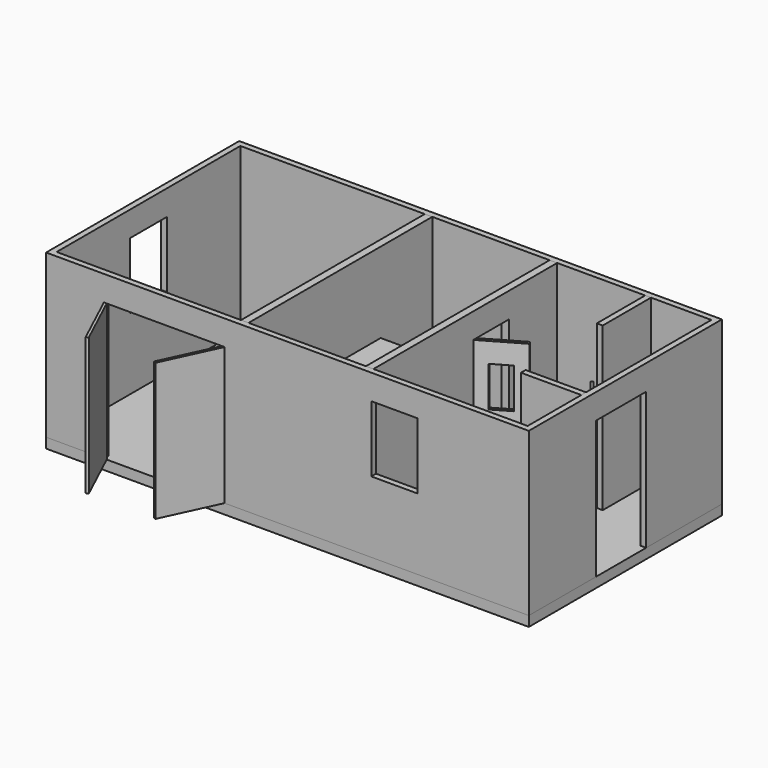
from build123d import *

# Parameters (mm, degrees)
F0_W           = 7315.2
F0_H           = 3657.6
F1_DEPTH       = 152.4
F2_W           = 7315.2
F2_H           = 3657.6
F2_W_2         = 7137.4
F2_H_2         = 3479.8
F3_DEPTH       = 2463.8
F4_W           = 952.5
F4_H           = 2082.8
F5_DEPTH       = 88.9
F6_W           = 1828.8
F6_H           = 2082.8
F6_W_2         = 698.5
F6_H_2         = 1003.3
F7_DEPTH       = 88.9
F8_W           = 698.5
F8_H           = 1003.3
F9_DEPTH       = 88.9
F10_W          = 114.3
F10_H          = 3479.8
F11_DEPTH      = 2463.8
F12_W          = 914.4
F12_H          = 88.9
F13_DEPTH      = 2463.8
F14_W          = 673.1
F14_H          = 2082.8
F15_DEPTH      = 114.3
F16_W          = 508
F16_H          = 88.9
F17_DEPTH      = 1739.9
F17_DEPTH_BACK = 762
F18_W          = 1270
F18_H          = 508
F19_DEPTH      = 88.9
F20_W          = 406.4
F20_H          = 88.9
F21_DEPTH      = 1231.9
F21_DEPTH_BACK = 762
F22_W          = 889
F22_H          = 304.8
F24_DEPTH      = 88.9
F26_DEPTH      = 2082.8
F28_DEPTH      = 2082.8
F29_W          = 2336.8
F29_H          = 76.2
F30_DEPTH      = 457.2
F31_W          = 304.8
F31_H          = 609.6
F32_DEPTH      = 50.8
F34_DEPTH      = 50.8
F35_W          = 508
F35_H          = 406.4
F36_DEPTH      = 9.525
F37_W          = 508
F37_H          = 406.4
F37_W_2        = 488.95
F37_H_2        = 387.35
F38_DEPTH      = 406.4
F40_DEPTH      = 12.7
F42_DEPTH      = 2082.8
F43_W          = 88.9
F43_H          = 914.4
F44_DEPTH      = 2463.8
F45_W          = 457.2
F45_H          = 1219.2
F46_DEPTH      = 76.2
F47_W          = 1333.5
F47_H          = 76.2
F48_DEPTH      = 457.2


with BuildPart() as f1:
    # F0 (on Top) → F1 (new body)
    with BuildSketch(Plane.XY):
        Rectangle(F0_W, F0_H)
    extrude(amount=F1_DEPTH)


with BuildPart() as f3:
    # F2 (on face) → F3 (new body)
    with BuildSketch(Plane.XY.offset(152.4)):
        Rectangle(F2_W, F2_H)
        Rectangle(F2_W_2, F2_H_2, mode=Mode.SUBTRACT)
    extrude(amount=F3_DEPTH)

    # F4 (on face) → F5 (cut, through all)
    with BuildSketch(Plane.YZ.offset(3657.6)):
        with Locations((-82.55, 1193.8)):
            Rectangle(F4_W, F4_H)
    extrude(amount=-F5_DEPTH, mode=Mode.SUBTRACT)

    # F6 (on face) → F7 (cut, through all)
    with BuildSketch(Plane.XZ.offset(1828.8)):
        with Locations((-1866.9, 1193.8)):
            Rectangle(F6_W, F6_H)
        with Locations((1619.25, 1733.55)):
            Rectangle(F6_W_2, F6_H_2)
    extrude(amount=-F7_DEPTH, mode=Mode.SUBTRACT)

    # F8 (on face) → F9 (cut, through all)
    with BuildSketch(Plane(origin=(-3657.6, 0, 0), x_dir=(0, -1, 0), z_dir=(-1, 0, 0))):
        with Locations((0, 1733.55)):
            Rectangle(F8_W, F8_H)
    extrude(amount=-F9_DEPTH, mode=Mode.SUBTRACT)


with BuildPart() as f11:
    # F10 (on face) → F11 (new body, through all)
    with BuildSketch(Plane.XY.offset(152.4)):
        with Locations((-717.55, 0)):
            Rectangle(F10_W, F10_H)
    extrude(amount=F11_DEPTH)


with BuildPart() as f11b:
    # F10 (on face) → F11, piece 2 (new body, through all)
    with BuildSketch(Plane.XY.offset(152.4)):
        with Locations((1174.75, 0)):
            Rectangle(F10_W, F10_H)
    extrude(amount=F11_DEPTH)

    # F14 (on face) → F15 (cut, through all)
    with BuildSketch(Plane.YZ.offset(1231.9)):
        with Locations((488.95, 1193.8)):
            Rectangle(F14_W, F14_H)
    extrude(amount=-F15_DEPTH, mode=Mode.SUBTRACT)


with BuildPart() as f13:
    # F12 (on face) → F13 (new body, through all)
    with BuildSketch(Plane.XY.offset(152.4)):
        with Locations((3111.5, -679.45)):
            Rectangle(F12_W, F12_H)
    extrude(amount=F13_DEPTH)


with BuildPart() as f17:
    # F16 (on Front) → F17 (new body, two sides)
    with BuildSketch(Plane.XZ) as f17_sk:
        with Locations((-406.4, 1352.55)):
            Rectangle(F16_W, F16_H)
    extrude(amount=F17_DEPTH)
    extrude(f17_sk.sketch, amount=-F17_DEPTH_BACK)


with BuildPart() as f19:
    # F18 (on face) → F19 (new body, through all)
    with BuildSketch(Plane.XY.offset(1397)):
        with Locations((482.6, -1485.9)):
            Rectangle(F18_W, F18_H)
    extrude(amount=-F19_DEPTH)


with BuildPart() as f21:
    # F20 (on Front) → F21 (new body, two sides)
    with BuildSketch(Plane.XZ) as f21_sk:
        with Locations((25.4, 844.55)):
            Rectangle(F20_W, F20_H)
    extrude(amount=F21_DEPTH)
    extrude(f21_sk.sketch, amount=-F21_DEPTH_BACK)


with BuildPart() as f24:
    # F22 (on face) → F24 (new body, through all)
    with BuildSketch(Plane.XY.offset(889)):
        with Locations((673.1, -1079.5)):
            Rectangle(F22_W, F22_H)
    extrude(amount=-F24_DEPTH)


with BuildPart() as f26:
    # F25 (on face) → F26 (new body)
    with BuildSketch(Plane.XY.offset(152.4)):
        Polygon((1789.4216992873, 532.9440905122), (1206.5, 196.3940905122), (1231.9, 152.4), (1814.8216992873, 488.95), align=None)
    extrude(amount=F26_DEPTH)

    # F31 (on face) → F32 (cut, through all)
    with BuildSketch(Plane(origin=(241.9838642316, -419.128347461, 0), x_dir=(0.8660254038, 0.5, 0), z_dir=(0.5, -0.8660254038, 0))):
        with Locations((1479.6066949221, 1625.6)):
            Rectangle(F31_W, F31_H)
    extrude(amount=-F32_DEPTH, mode=Mode.SUBTRACT)


with BuildPart() as f28:
    # F27 (on face) → F28 (new body)
    with BuildSketch(Plane.XY.offset(152.4)):
        Polygon((2977.9257969634, 188.3560018005), (3568.7, -558.8), (3598.586240072, -535.1690318785), (3007.8120370354, 211.986969922), align=None)
    extrude(amount=F28_DEPTH)


with BuildPart() as f30:
    # F29 (on face) → F30 (new body)
    with BuildSketch(Plane(origin=(0, -1739.9, 0), x_dir=(-1, 0, 0), z_dir=(0, 1, 0))):
        with Locations((-2400.3, 622.3)):
            Rectangle(F29_W, F29_H)
    extrude(amount=F30_DEPTH)


with BuildPart() as f34:
    # F33 (on face) → F34 (new body)
    with BuildSketch(Plane.XY.offset(152.4)):
        Polygon((-660.4, 977.9), (50.8, 977.9), (50.8, 1358.9), (50.8, 1739.9), (-660.4, 1739.9), align=None)
    extrude(amount=F34_DEPTH)


with BuildPart() as f36:
    # F35 (on face) → F36 (new body)
    with BuildSketch(Plane.XY.offset(152.4)):
        with Locations((2088.9996967316, -1536.7)):
            Rectangle(F35_W, F35_H)
    extrude(amount=F36_DEPTH)

    # F37 (on face) → F38 (join)
    with BuildSketch(Plane.XY.offset(161.925)):
        with Locations((2088.9996967316, -1536.7)):
            Rectangle(F37_W, F37_H)
        with Locations((2088.9996967316, -1536.7)):
            Rectangle(F37_W_2, F37_H_2, mode=Mode.SUBTRACT)
    extrude(amount=F38_DEPTH)

    # F39 (on face) → F40 (join)
    with BuildSketch(Plane.XY.offset(568.325)):
        with BuildLine():
            Line((1809.5996967316, -1600.2), (1834.9996967316, -1600.2))
            Line((1834.9996967316, -1600.2), (1834.9996967316, -1473.2))
            Line((1834.9996967316, -1473.2), (1809.5996967316, -1473.2))
            ThreePointArc((1809.5996967316, -1473.2), (1800.6194406105, -1476.9197438789), (1796.8996967316, -1485.9))
            Line((1796.8996967316, -1485.9), (1796.8996967316, -1587.5))
            ThreePointArc((1796.8996967316, -1587.5), (1800.6194406105, -1596.4802561211), (1809.5996967316, -1600.2))
        make_face()
        with BuildLine():
            Line((2342.9996967316, -1473.2), (2342.9996967316, -1600.2))
            Line((2342.9996967316, -1600.2), (2368.3996967316, -1600.2))
            ThreePointArc((2368.3996967316, -1600.2), (2377.3799528526, -1596.4802561211), (2381.0996967316, -1587.5))
            Line((2381.0996967316, -1587.5), (2381.0996967316, -1485.9))
            ThreePointArc((2381.0996967316, -1485.9), (2377.3799528526, -1476.9197438789), (2368.3996967316, -1473.2))
            Line((2368.3996967316, -1473.2), (2342.9996967316, -1473.2))
        make_face()
    extrude(amount=-F40_DEPTH)


with BuildPart() as f42:
    # F41 (on face) → F42 (new body)
    with BuildSketch(Plane.XY.offset(152.4)):
        Polygon((-2746.7712332818, -1812.6948992887), (-2781.3, -1828.8), (-2394.7775829299, -2657.490401237), (-2360.2488162117, -2641.3853005257), align=None)
    extrude(amount=F42_DEPTH)


with BuildPart() as f42b:
    # F41 (on face) → F42, piece 2 (new body)
    with BuildSketch(Plane.XY.offset(152.4)):
        Polygon((-1339.0224170701, -2657.490401237), (-952.5, -1828.8), (-987.0287667182, -1812.6948992887), (-1373.5511837883, -2641.3853005257), align=None)
    extrude(amount=F42_DEPTH)


with BuildPart() as f44:
    # F43 (on face) → F44 (new body)
    with BuildSketch(Plane.XY.offset(152.4)):
        with Locations((2609.85, 1282.7)):
            Rectangle(F43_W, F43_H)
    extrude(amount=F44_DEPTH)


with BuildPart() as f46:
    # F45 (on face) → F46 (new body)
    with BuildSketch(Plane.XY.offset(660.4)):
        with Locations((1460.5, -673.1)):
            Rectangle(F45_W, F45_H)
    extrude(amount=-F46_DEPTH)


with BuildPart() as f48:
    # F47 (on face) → F48 (new body)
    with BuildSketch(Plane.XZ.offset(-1739.9)):
        with Locations((1898.65, 622.3)):
            Rectangle(F47_W, F47_H)
    extrude(amount=F48_DEPTH)


solid = Compound([f1.part, f3.part, f11.part, f11b.part, f13.part, f17.part, f19.part, f21.part, f24.part, f26.part, f28.part, f30.part, f34.part, f36.part, f42.part, f42b.part, f44.part, f46.part, f48.part])
